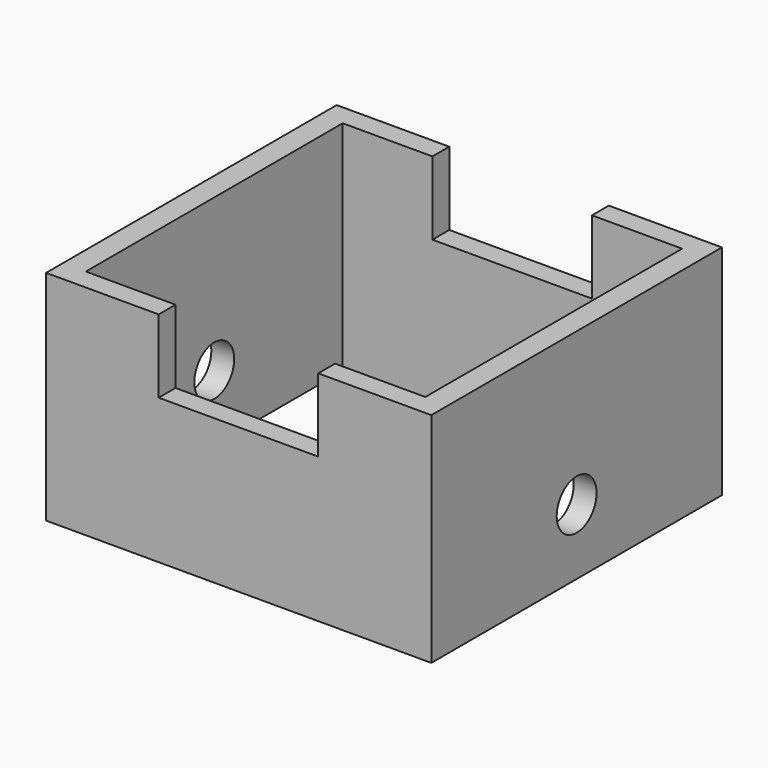
from build123d import *

# Parameters (mm, degrees)
F0_W     = 134.5710605383
F0_H     = 126.8914490938
F0_W_2   = 120.110668242
F0_H_2   = 106.3882932067
F1_DEPTH = 50.8
F2_R     = 8.7009101407
F3_DEPTH = 508
F4_DEPTH = 25.4
F6_W     = 55.7228904217
F6_H     = 25.6094848633
F7_DEPTH = 584.2
F5_W     = 118.594430387
F5_H     = 112.178966403
F8_DEPTH = 508


with BuildPart() as f1:
    # F0 (on Top) → F1 (new body)
    with BuildSketch(Plane.XY):
        Rectangle(F0_W, F0_H)
        Rectangle(F0_W_2, F0_H_2, mode=Mode.SUBTRACT)
        Rectangle(F0_W_2, F0_H_2)
    extrude(amount=F1_DEPTH)

    # F2 (on face) → F3 (cut)
    with BuildSketch(Plane(origin=(-67.2855302691, 0, 0), x_dir=(0, -1, 0), z_dir=(-1, 0, 0))):
        with Locations((0, 22.9123719037)):
            Circle(F2_R)
    extrude(amount=-F3_DEPTH, mode=Mode.SUBTRACT)

    # F4 (add): a face of the model
    f4_faces = [f1.faces().sort_by_distance(p)[0] for p in [
        (0, 0, 50.8),
    ]]
    extrude(f4_faces, amount=F4_DEPTH)

    # F6 (on face) → F7 (cut)
    with BuildSketch(Plane(origin=(0, 63.4457245469, 0), x_dir=(-1, 0, 0), z_dir=(0, 1, 0))):
        with Locations((0.0916505232, 63.3952575684)):
            Rectangle(F6_W, F6_H)
    extrude(amount=-F7_DEPTH, mode=Mode.SUBTRACT)

    # F5 (on face) → F8 (cut)
    with BuildSketch(Plane.XY.offset(76.2)):
        Rectangle(F5_W, F5_H)
    extrude(amount=-F8_DEPTH, mode=Mode.SUBTRACT)


solid = f1.part
